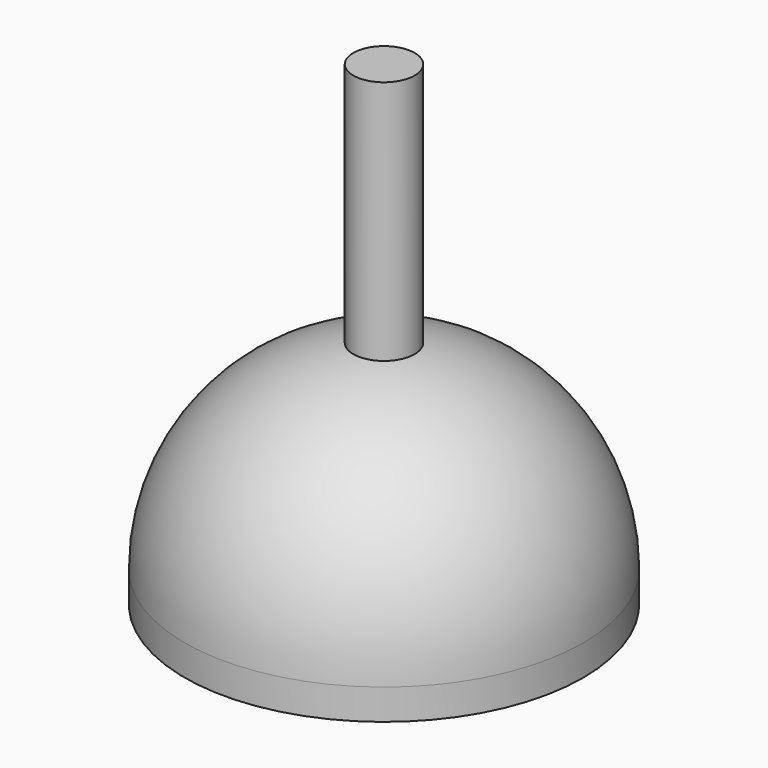
from build123d import *

# Parameters (mm, degrees)
F0_R     = 16.51
F1_DEPTH = 19.05
F2_R     = 16.51
F3_R     = 11.722299
F4_DEPTH = 7.62
F6_R     = 2.54
F7_DEPTH = 20.32


with BuildPart() as f1:
    # F0 (on Top) → F1 (new body)
    with BuildSketch(Plane.XY):
        Circle(F0_R)
    extrude(amount=F1_DEPTH)

    # F2
    f2_edges = [f1.edges().sort_by_distance(p)[0] for p in [
        (-16.51, 0, 19.05),
    ]]
    fillet(f2_edges, radius=F2_R)

    # F3 (on Top) → F4 (cut)
    with BuildSketch(Plane.XY):
        Circle(F3_R)
    extrude(amount=F4_DEPTH, mode=Mode.SUBTRACT)

    # F6 (on offset) → F7 (join)
    with BuildSketch(Plane.XY.offset(19.05)):
        Circle(F6_R)
    extrude(amount=F7_DEPTH)


solid = f1.part
